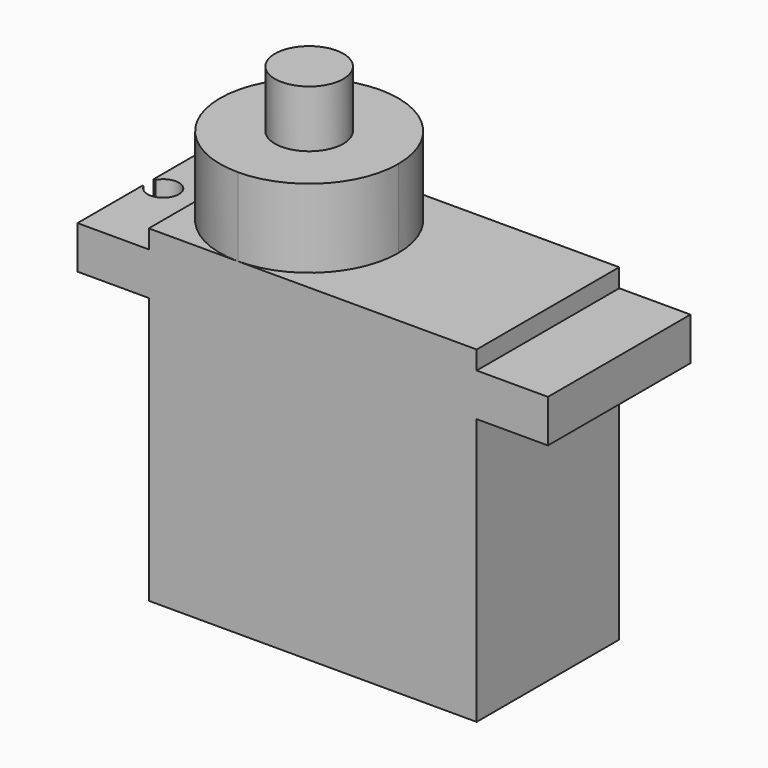
from build123d import *

# Parameters (mm, degrees)
F0_W      = 23
F0_H      = 12.5
F1_DEPTH  = 23
F3_W      = 33
F3_H      = 12.5
F4_DEPTH  = 3
F6_DEPTH  = 5.5
F7_R      = 2.4
F8_DEPTH  = 4
F10_DEPTH = 25


with BuildPart() as f1:
    # F0 (on Top) → F1 (new body)
    with BuildSketch(Plane.XY):
        with Locations((-21.4128988087, -13.7193646282)):
            Rectangle(F0_W, F0_H)
    extrude(amount=F1_DEPTH)

    # F3 (on offset) → F4 (join)
    with BuildSketch(Plane.XY.offset(21.7)):
        with Locations((-21.4128988087, -13.7193646282)):
            Rectangle(F3_W, F3_H)
    extrude(amount=-F4_DEPTH)

    # F5 (on face) → F6 (join)
    with BuildSketch(Plane.XY.offset(23)):
        with BuildLine():
            ThreePointArc((-26.6628988087, -19.9693646282), (-22.2434814263, -18.1387820106), (-20.4128988087, -13.7193646282))
            ThreePointArc((-20.4128988087, -13.7193646282), (-22.2434814263, -9.2999472458), (-26.6628988087, -7.4693646282))
            ThreePointArc((-26.6628988087, -7.4693646282), (-31.0823161911, -9.2999472458), (-32.9128988087, -13.7193646282))
            ThreePointArc((-32.9128988087, -13.7193646282), (-31.0823161911, -18.1387820106), (-26.6628988087, -19.9693646282))
        make_face()
    extrude(amount=F6_DEPTH)

    # F7 (on face) → F8 (join)
    with BuildSketch(Plane.XY.offset(28.5)):
        with Locations((-26.6628988087, -13.7193646282)):
            Circle(F7_R)
    extrude(amount=F8_DEPTH)

    # F9 (on face) → F10 (cut)
    with BuildSketch(Plane.XY.offset(21.7)):
        with BuildLine():
            ThreePointArc((-37.8123308197, -14.2869679257), (-36.5777129376, -14.9020368395), (-35.7128988087, -13.8274729252))
            ThreePointArc((-35.7128988087, -13.8274729252), (-36.5409103144, -12.7616294756), (-37.778393825, -13.3003871888))
            Line((-37.778393825, -13.3003871888), (-37.1418111026, -13.3003871888))
            Line((-37.1418111026, -13.3003871888), (-37.1418111026, -13.7193646282))
            Line((-37.1418111026, -13.7193646282), (-37.1418111026, -14.2869679257))
            Line((-37.1418111026, -14.2869679257), (-37.8123308197, -14.2869679257))
        make_face()
        with BuildLine():
            Line((-37.1418111026, -13.3003871888), (-37.778393825, -13.3003871888))
            ThreePointArc((-37.778393825, -13.3003871888), (-37.8640697227, -13.5033746227), (-37.9075734618, -13.7193646282))
            Line((-37.9075734618, -13.7193646282), (-37.1418111026, -13.7193646282))
            Line((-37.1418111026, -13.7193646282), (-37.1418111026, -13.3003871888))
        make_face()
        with BuildLine():
            ThreePointArc((-37.9075734618, -13.7193646282), (-37.8640697227, -13.5033746227), (-37.778393825, -13.3003871888))
            Line((-37.778393825, -13.3003871888), (-38.5551899672, -13.3003871888))
            Line((-38.5551899672, -13.3003871888), (-38.5551899672, -13.7193646282))
            Line((-38.5551899672, -13.7193646282), (-37.9075734618, -13.7193646282))
        make_face()
        with BuildLine():
            Line((-38.5551899672, -14.2869679257), (-37.8123308197, -14.2869679257))
            ThreePointArc((-37.8123308197, -14.2869679257), (-37.8977324623, -14.0095057356), (-37.9075734618, -13.7193646282))
            Line((-37.9075734618, -13.7193646282), (-38.5551899672, -13.7193646282))
            Line((-38.5551899672, -13.7193646282), (-38.5551899672, -14.2869679257))
        make_face()
        with BuildLine():
            ThreePointArc((-37.9075734618, -13.7193646282), (-37.8977324623, -14.0095057356), (-37.8123308197, -14.2869679257))
            Line((-37.8123308197, -14.2869679257), (-37.1418111026, -14.2869679257))
            Line((-37.1418111026, -14.2869679257), (-37.1418111026, -13.7193646282))
            Line((-37.1418111026, -13.7193646282), (-37.9075734618, -13.7193646282))
        make_face()
    extrude(amount=-F10_DEPTH, mode=Mode.SUBTRACT)


solid = f1.part
